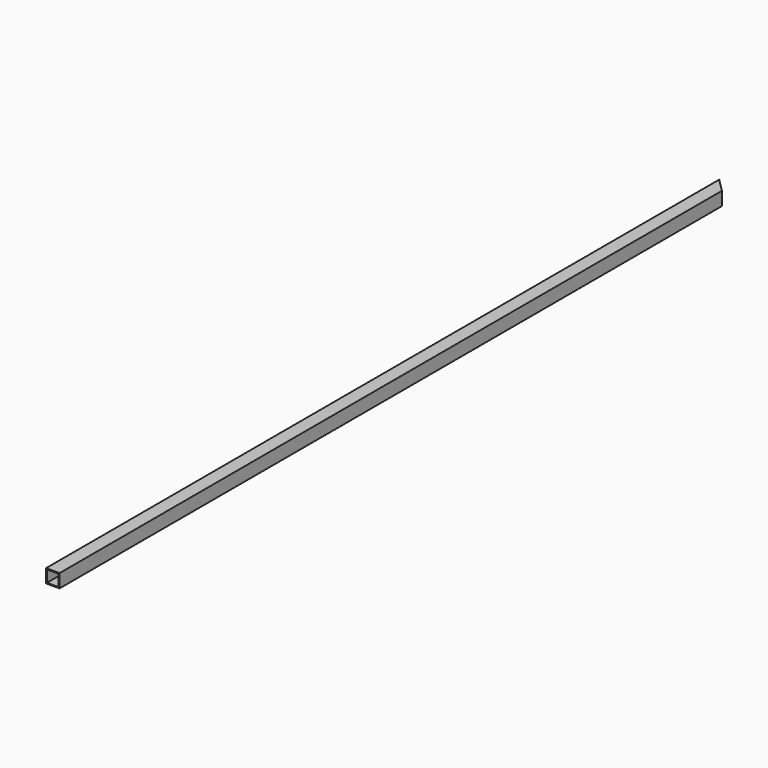
from build123d import *

# Parameters (mm, degrees)
F0_W     = 31.75
F0_H     = 31.75
F0_W_2   = 27.5336
F0_H_2   = 27.5336
F1_DEPTH = 1981.2
F3_DEPTH = 76.2


with BuildPart() as f1:
    # F0 (on Front) → F1 (new body)
    with BuildSketch(Plane.XZ):
        with Locations((-48.296367, 16.120737)):
            Rectangle(F0_W, F0_H)
        with Locations((-48.296367, 16.120737)):
            Rectangle(F0_W_2, F0_H_2, mode=Mode.SUBTRACT)
    extrude(amount=F1_DEPTH)

    # F2 (on face) → F3 (cut)
    with BuildSketch(Plane.XY.offset(31.995737)):
        Polygon((-32.421367, 0), (-64.171367, 0), (-32.421367, -31.75), align=None)
    extrude(amount=-F3_DEPTH, mode=Mode.SUBTRACT)


solid = f1.part
